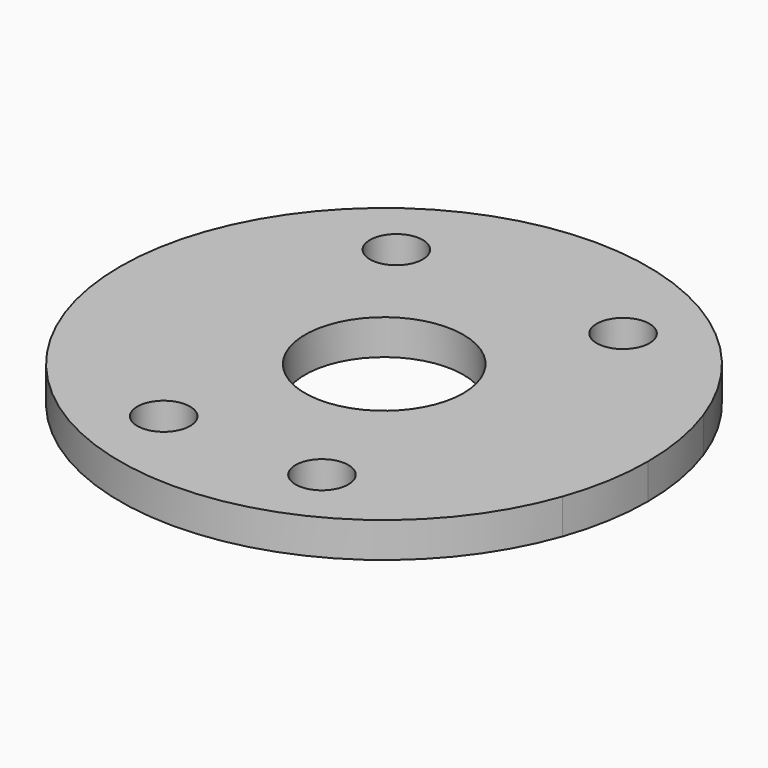
from build123d import *

# Parameters (mm, degrees)
F0_R     = 4.5
F0_R_2   = 1.5
F1_DEPTH = 2


with BuildPart() as f1:
    # F0 (on Top) → F1 (new body)
    with BuildSketch(Plane.XY):
        with BuildLine():
            ThreePointArc((14.145213, -4.991288), (14.784759, -2.531977), (15, 0))
            ThreePointArc((15, 0), (14.783196, 2.541084), (14.139053, 5.008712))
            Line((14.139053, 5.008712), (-14.139053, 5.008712))
            ThreePointArc((-14.139053, 5.008712), (-14.999997, 0.00924), (-14.145213, -4.991288))
            Line((-14.145213, -4.991288), (14.145213, -4.991288))
        make_face()
        with Locations((0.003542, 0.008712)):
            Circle(F0_R, mode=Mode.SUBTRACT)
        with BuildLine():
            Line((-14.139053, 5.008712), (14.139053, 5.008712))
            ThreePointArc((14.139053, 5.008712), (0, 15), (-14.139053, 5.008712))
        make_face()
        with Locations((-6.439687, 8.926135)):
            Circle(F0_R_2, mode=Mode.SUBTRACT)
        with Locations((6.450313, 8.92)):
            Circle(F0_R_2, mode=Mode.SUBTRACT)
        with BuildLine():
            ThreePointArc((-14.145213, -4.991288), (0, -15), (14.145213, -4.991288))
            Line((14.145213, -4.991288), (-14.145213, -4.991288))
        make_face()
        with Locations((-4.497559, -10.03)):
            Circle(F0_R_2, mode=Mode.SUBTRACT)
        with Locations((4.497559, -10.03)):
            Circle(F0_R_2, mode=Mode.SUBTRACT)
    extrude(amount=-F1_DEPTH)


solid = f1.part
